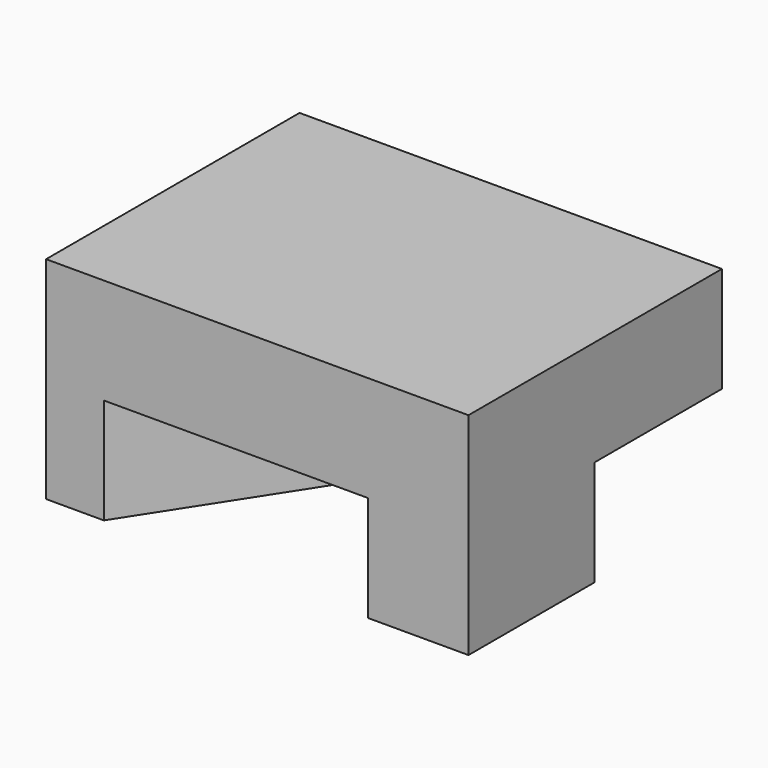
from build123d import *

# Parameters (mm, degrees)
F0_W     = 50.8
F0_H     = 38.1
F1_DEPTH = 25.4
F3_DEPTH = 12.7
F5_DEPTH = 12.7


with BuildPart() as f1:
    # F0 (on Top) → F1 (new body)
    with BuildSketch(Plane.XY):
        with Locations((25.4, 19.05)):
            Rectangle(F0_W, F0_H)
    extrude(amount=F1_DEPTH)

    # F2 (on Top) → F3 (cut)
    with BuildSketch(Plane.XY):
        Polygon((31.617284, 38.250383), (6.945312, 0), (38.695312, 0), (50.667284, 19.200383), (50.667284, 38.250383), align=None)
    extrude(amount=F3_DEPTH, mode=Mode.SUBTRACT)

    # F4 (on Top) → F5 (cut)
    with BuildSketch(Plane.XY):
        Polygon((42.331342, 46.297029), (50.708331, 18.741136), (61.069343, 42.990319), align=None)
    extrude(amount=F5_DEPTH, mode=Mode.SUBTRACT)


solid = f1.part
